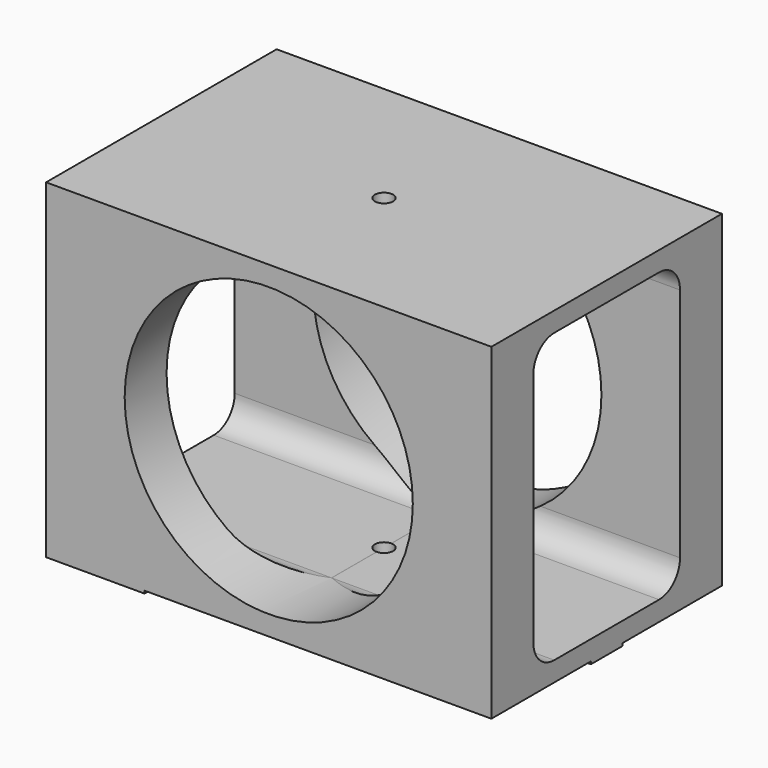
from build123d import *

# Parameters (mm, degrees)
F0_W      = 340
F0_H      = 250
F1_DEPTH  = 220
F3_DEPTH  = 340
F4_R      = 110.000034
F5_DEPTH  = 228.6
F6_R      = 6.999986
F7_DEPTH  = 304.8
F8_W      = 75.12304
F8_H      = 29.99994
F9_DEPTH  = 2
F10_W     = 75
F10_H     = 30
F11_DEPTH = 2


with BuildPart() as f1:
    # F0 (on Front) → F1 (new body)
    with BuildSketch(Plane.XZ):
        Rectangle(F0_W, F0_H)
    extrude(amount=F1_DEPTH)

    # F2 (on face) → F3 (cut)
    with BuildSketch(Plane.YZ.offset(170)):
        with BuildLine():
            ThreePointArc((-40.00008, 89.98988), (-45.860908, 104.139172), (-60.0102, 110))
            Line((-60.0102, 110), (-159.98996, 110))
            ThreePointArc((-159.98996, 110), (-174.139252, 104.139172), (-180.00008, 89.98988))
            Line((-180.00008, 89.98988), (-180.00008, -89.98988))
            ThreePointArc((-180.00008, -89.98988), (-174.139252, -104.139172), (-159.98996, -110))
            Line((-159.98996, -110), (-60.0102, -110))
            ThreePointArc((-60.0102, -110), (-45.860908, -104.139172), (-40.00008, -89.98988))
            Line((-40.00008, -89.98988), (-40.00008, 89.98988))
        make_face()
    extrude(amount=-F3_DEPTH, mode=Mode.SUBTRACT)

    # F4 (on face) → F5 (cut)
    with BuildSketch(Plane.XZ.offset(220)):
        Circle(F4_R)
    extrude(amount=-F5_DEPTH, mode=Mode.SUBTRACT)

    # F6 (on face) → F7 (cut)
    with BuildSketch(Plane.XY.offset(125)):
        with Locations((0, -110.000034)):
            Circle(F6_R)
    extrude(amount=-F7_DEPTH, mode=Mode.SUBTRACT)

    # F8 (on face) → F9 (join)
    with BuildSketch(Plane(origin=(0, 0, -125), x_dir=(1, 0, 0), z_dir=(0, 0, -1))):
        with Locations((-132.43848, 205.00003)):
            Rectangle(F8_W, F8_H)
        with Locations((-132.43848, 14.99997)):
            Rectangle(F8_W, F8_H)
    extrude(amount=F9_DEPTH)

    # F10 (on face) → F11 (join)
    with BuildSketch(Plane(origin=(0, 0, -125), x_dir=(1, 0, 0), z_dir=(0, 0, -1))):
        with Locations((132.5, 110)):
            Rectangle(F10_W, F10_H)
    extrude(amount=F11_DEPTH)


solid = f1.part
